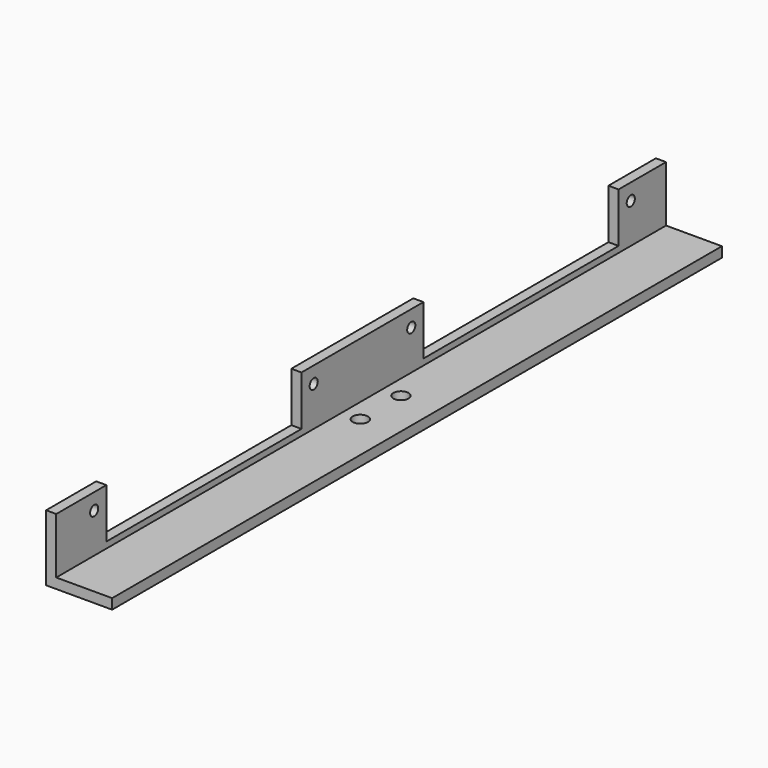
from build123d import *

# Parameters (mm, degrees)
F1_DEPTH = 150
F3_D     = 3
F4_W     = 48
F4_H     = 6.5847709775
F4_H_2   = 3.1977064162
F5_DEPTH = 78
F6_D     = 2


with BuildPart() as f1:
    # F0 (on Front) → F1 (new body)
    with BuildSketch(Plane.XZ):
        Polygon((-31.1246368587, 37.6302368194), (-33.1246368587, 37.6302368194), (-33.1246368587, 24.6302368194), (-20.1246368587, 24.6302368194), (-20.1246368587, 26.6302368194), (-31.1246368587, 26.6302368194), align=None)
    extrude(amount=F1_DEPTH)

    # F3 (through all)
    with Locations(Plane(origin=(0, 0, 24.6302368194), x_dir=(1, 0, 0), z_dir=(0, 0, -1))):
        with Locations((-27.5510344654, 69.6690183878), (-27.5510344654, 79.6690183878)):
            Hole(F3_D / 2)

    # F4 (on face) → F5 (cut)
    with BuildSketch(Plane(origin=(-33.1246368587, 0, 0), x_dir=(0, -1, 0), z_dir=(-1, 0, 0))):
        with Locations((35.6690183878, 31.1401449144)):
            Rectangle(F4_W, F4_H)
        with Locations((35.6690183878, 36.0313836113)):
            Rectangle(F4_W, F4_H_2)
        with Locations((113.6690183878, 36.0313836113)):
            Rectangle(F4_W, F4_H_2)
        with Locations((113.6690183878, 31.1401449144)):
            Rectangle(F4_W, F4_H)
    extrude(amount=-F5_DEPTH, mode=Mode.SUBTRACT)

    # F6 (through all)
    with Locations(Plane(origin=(-33.1246368587, 0, 0), x_dir=(0, -1, 0), z_dir=(-1, 0, 0))):
        with Locations((8.6690183878, 34.4325304031), (62.6690183878, 34.4325304031), (86.6690183878, 34.4325304031), (140.6690183878, 34.4325304031)):
            Hole(F6_D / 2)


solid = f1.part
